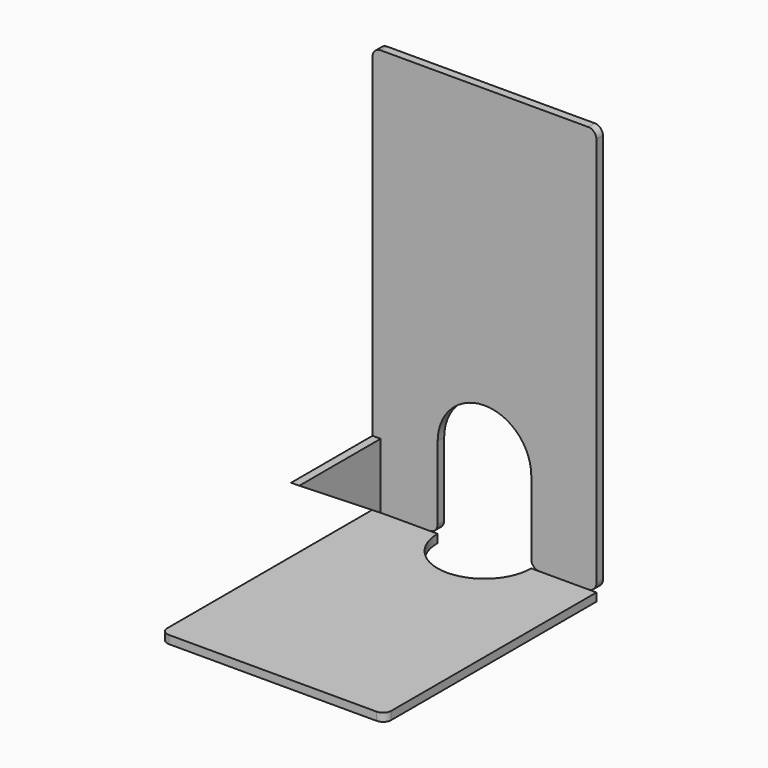
from build123d import *

# Parameters (mm, degrees)
F1_DEPTH = 2
F2_R     = 2
F4_DEPTH = 2
F5_R     = 2
F7_DEPTH = 2


with BuildPart() as f1:
    # F0 (on Front) → F1 (new body)
    with BuildSketch(Plane.XZ):
        with BuildLine():
            Line((0, 100), (0, 0))
            Line((0, 0), (16, 0))
            Line((16, 0), (16, 20))
            ThreePointArc((16, 20), (27.5, 31.5), (39, 20))
            Line((39, 20), (39, 0))
            Line((39, 0), (55, 0))
            Line((55, 0), (55, 100))
            Line((55, 100), (0, 100))
        make_face()
    extrude(amount=-F1_DEPTH)

    # F2
    f2_edges = [f1.edges().sort_by_distance(p)[0] for p in [
        (0, 1, 100),
        (55, 1, 100),
        (55, 1, 0),
        (39, 1, 0),
        (16, 1, 0),
        (0, 1, 0),
    ]]
    fillet(f2_edges, radius=F2_R)


with BuildPart() as f4:
    # F3 (on Top) → F4 (new body)
    with BuildSketch(Plane.XY):
        with BuildLine():
            Line((16, 0), (0, 0))
            Line((0, 0), (0, -65))
            Line((0, -65), (55, -65))
            Line((55, -65), (55, 0))
            Line((55, 0), (39, 0))
            ThreePointArc((39, 0), (35.631728, -8.131728), (27.5, -11.5))
            ThreePointArc((27.5, -11.5), (19.368272, -8.131728), (16, 0))
        make_face()
    extrude(amount=-F4_DEPTH)

    # F5
    f5_edges = [f4.edges().sort_by_distance(p)[0] for p in [
        (0, -65, -1),
        (55, -65, -1),
    ]]
    fillet(f5_edges, radius=F5_R)


with BuildPart() as f7:
    # F6 (on Right) → F7 (new body)
    with BuildSketch(Plane.YZ):
        Polygon((-25, 16), (0, 0), (0, 16), align=None)
    extrude(amount=F7_DEPTH)


solid = Compound([f1.part, f4.part, f7.part])
